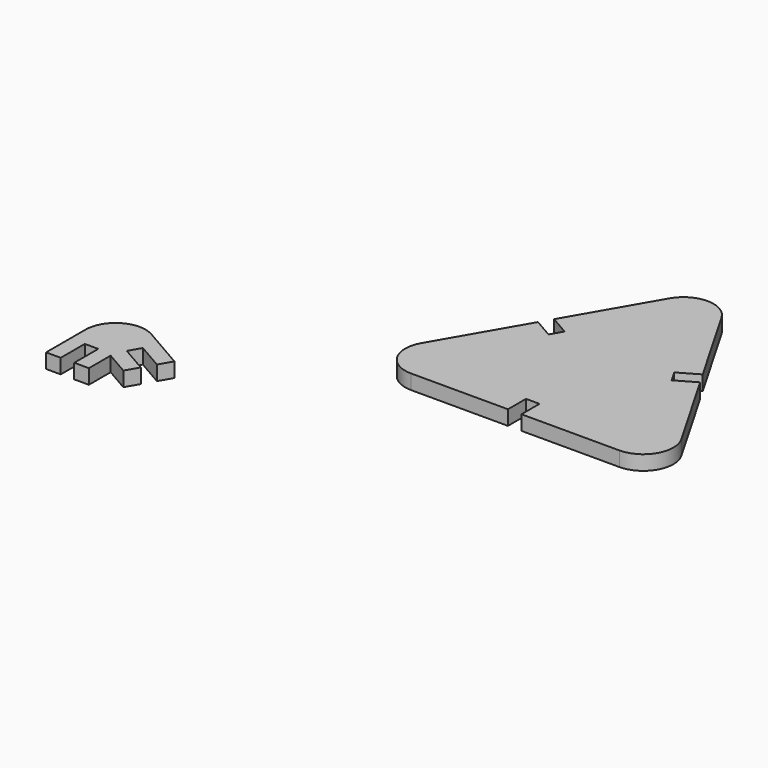
from build123d import *

# Parameters (mm, degrees)
F2_DEPTH = 3.9
F5_DEPTH = 3.9


with BuildPart() as f2:
    # F1 (on Top) → F2 (new body)
    with BuildSketch(Plane.XY):
        with BuildLine():
            ThreePointArc((6.9282032303, 12), (6.9282032303, 4), (13.8564064606, 0))
            Line((13.8564064606, 0), (39.6192193817, 0))
            Line((39.6192193817, 0), (39.6192193817, 6))
            Line((39.6192193817, 6), (43.2192193817, 6))
            Line((43.2192193817, 6), (43.2192193817, 0))
            Line((43.2192193817, 0), (69.2820323028, 0))
            ThreePointArc((69.2820323028, 0), (76.210235533, 4), (76.210235533, 12))
            Line((76.210235533, 12), (63.2538290725, 34.4411542732))
            Line((63.2538290725, 34.4411542732), (58.0576766498, 31.4411542732))
            Line((58.0576766498, 31.4411542732), (56.2576766498, 34.5588457268))
            Line((56.2576766498, 34.5588457268), (61.4538290725, 37.5588457268))
            Line((61.4538290725, 37.5588457268), (48.4974226119, 60))
            ThreePointArc((48.4974226119, 60), (41.5692193817, 64), (34.6410161514, 60))
            Line((34.6410161514, 60), (21.7596096908, 37.6887495374))
            Line((21.7596096908, 37.6887495374), (26.9557621135, 34.6887495374))
            Line((26.9557621135, 34.6887495374), (25.1557621135, 31.5710580838))
            Line((25.1557621135, 31.5710580838), (19.9596096908, 34.5710580838))
            Line((19.9596096908, 34.5710580838), (6.9282032303, 12))
        make_face()
    extrude(amount=F2_DEPTH)


with BuildPart() as f5:
    # F4 (on Top) → F5 (new body)
    with BuildSketch(Plane.XY):
        with BuildLine():
            Line((-43.9, -40), (-40, -40))
            Line((-40, -40), (-40, -32.7549981495))
            Line((-40, -32.7549981495), (-33.725644347, -36.3774990748))
            Line((-33.725644347, -36.3774990748), (-31.775644347, -33))
            Line((-31.775644347, -33), (-38.7038475773, -29))
            Line((-38.7038475773, -29), (-36.9038475773, -25.8823085464))
            Line((-36.9038475773, -25.8823085464), (-29.975644347, -29.8823085464))
            Line((-29.975644347, -29.8823085464), (-28.025644347, -26.5048094716))
            Line((-28.025644347, -26.5048094716), (-39.4, -19.9378221735))
            ThreePointArc((-39.4, -19.9378221735), (-47.4, -19.9378221735), (-51.4, -26.8660254038))
            Line((-51.4, -26.8660254038), (-51.4, -40))
            Line((-51.4, -40), (-47.5, -40))
            Line((-47.5, -40), (-47.5, -32))
            Line((-47.5, -32), (-43.9, -32))
            Line((-43.9, -32), (-43.9, -40))
        make_face()
    extrude(amount=F5_DEPTH)


solid = Compound([f2.part, f5.part])
